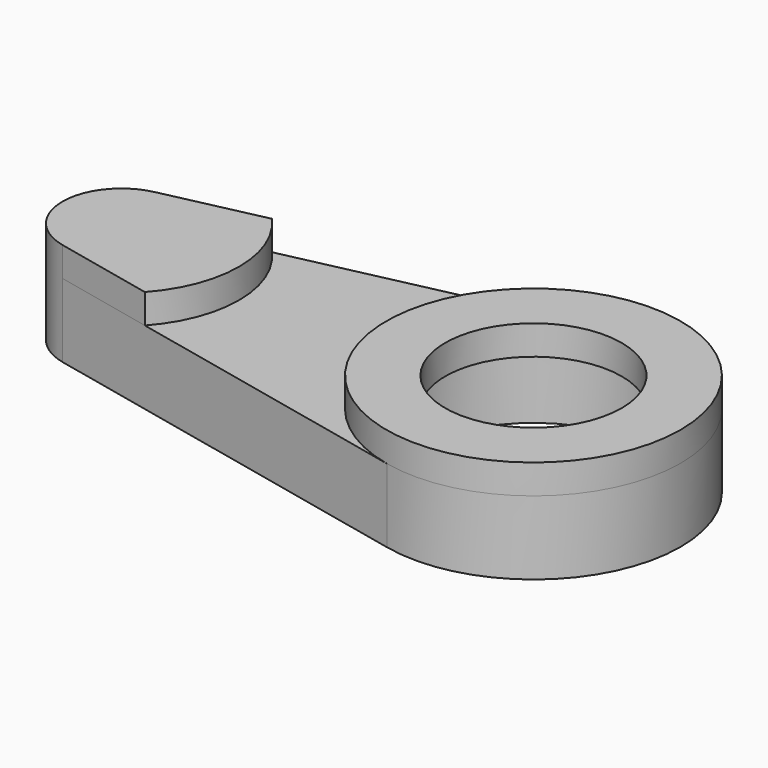
from build123d import *

# Parameters (mm, degrees)
SKETCH_R      = 8
PAD_DEPTH     = 5
SKETCH001_R   = 10
SKETCH001_R_2 = 6
PAD001_DEPTH  = 2
PAD002_DEPTH  = 2


with BuildPart() as part:
    # Sketch → Pad (new body)
    with BuildSketch(Plane.XY):
        with BuildLine():
            ThreePointArc((-2.142857, -9.76771), (10, 0), (-2.142857, 9.76771))
            Line((-28.857143, 3.907084), (-2.142857, 9.76771))
            ThreePointArc((-28.857143, 3.907084), (-32, 0), (-28.857143, -3.907084))
            Line((-2.142857, -9.76771), (-28.857143, -3.907084))
        make_face()
        Circle(SKETCH_R, mode=Mode.SUBTRACT)
    extrude(amount=PAD_DEPTH)

    # Sketch001 (on Face7 of Pad) → Pad001 (join)
    with BuildSketch(Plane.XY.offset(5)):
        Circle(SKETCH001_R)
        Circle(SKETCH001_R_2, mode=Mode.SUBTRACT)
    extrude(amount=PAD001_DEPTH)

    # Sketch002 (on Face7 of Pad001) → Pad002 (join)
    with BuildSketch(Plane.XY.offset(5)):
        with BuildLine():
            ThreePointArc((-28.857143, 3.907084), (-32, 0), (-28.857143, -3.907084))
            Line((-28.857143, -3.907084), (-22.089875, -5.391699))
            ThreePointArc((-22.089875, -5.391699), (-20, 0), (-22.089875, 5.391699))
            Line((-28.857143, 3.907084), (-22.089875, 5.391699))
        make_face()
    extrude(amount=PAD002_DEPTH)


solid = part.part
